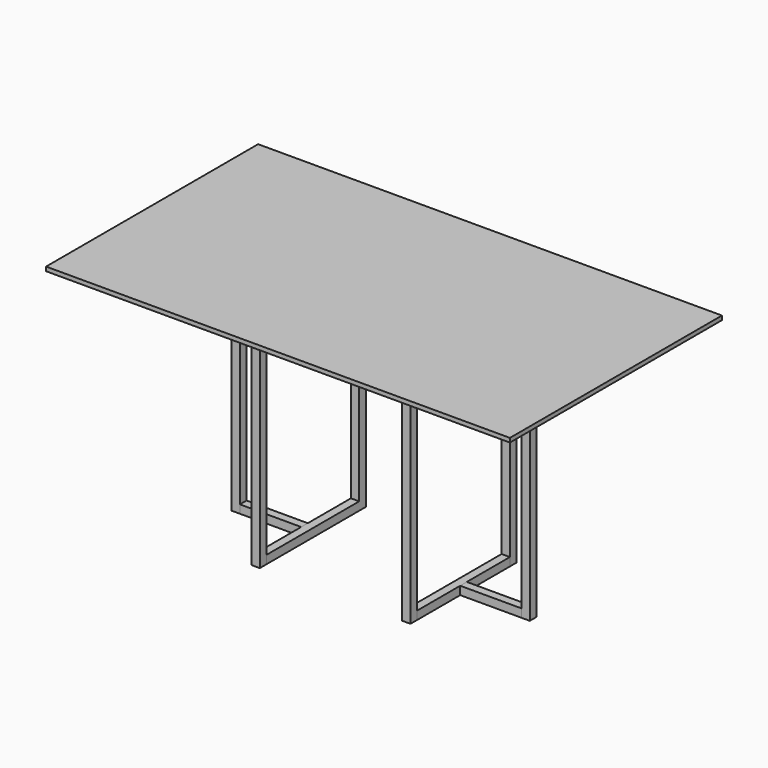
from build123d import *

# Parameters (mm, degrees)
F0_W      = 25
F0_H      = 25
F1_DEPTH  = 700
F3_W      = 25
F3_H      = 25
F4_DEPTH  = 350
F6_W      = 25
F6_H      = 25
F7_DEPTH  = 185
F9_W      = 25
F9_H      = 25
F10_DEPTH = 350
F12_W     = 25
F12_H     = 25
F13_DEPTH = 185
F16_DEPTH = 3
F18_W     = 1400
F18_H     = 800
F19_DEPTH = 25
F20_SIZE2 = 12.5
F20_SIZE  = 40


with BuildPart() as f1:
    # F0 (on Top) → F1 (new body)
    with BuildSketch(Plane.XY):
        with Locations((-472.5, 587.5)):
            Rectangle(F0_W, F0_H)
    extrude(amount=F1_DEPTH)


with BuildPart() as f1b:
    # F0 (on Top) → F1, piece 2 (new body)
    with BuildSketch(Plane.XY):
        Polygon((-250, 387.5), (-250, 400), (-250, 412.5), (-275, 412.5), (-275, 387.5), align=None)
    extrude(amount=F1_DEPTH)


with BuildPart() as f1c:
    # F0 (on Top) → F1, piece 3 (new body)
    with BuildSketch(Plane.XY):
        with Locations((-472.5, 212.5)):
            Rectangle(F0_W, F0_H)
    extrude(amount=F1_DEPTH)


with BuildPart() as f1d:
    # F0 (on Top) → F1, piece 4 (new body)
    with BuildSketch(Plane.XY):
        with Locations((-927.5, 587.5)):
            Rectangle(F0_W, F0_H)
    extrude(amount=F1_DEPTH)

    # F9 (on offset) → F10 (join)
    with BuildSketch(Plane.XZ.offset(-575)):
        with Locations((-927.5, 12.5)):
            Rectangle(F9_W, F9_H)
    extrude(amount=F10_DEPTH)


with BuildPart() as f1e:
    # F0 (on Top) → F1, piece 5 (new body)
    with BuildSketch(Plane.XY):
        with Locations((-927.5, 212.5)):
            Rectangle(F0_W, F0_H)
    extrude(amount=F1_DEPTH)


with BuildPart() as f1f:
    # F0 (on Top) → F1, piece 6 (new body)
    with BuildSketch(Plane.XY):
        with Locations((-1137.5, 400)):
            Rectangle(F0_W, F0_H)
    extrude(amount=F1_DEPTH)


with BuildPart() as f4:
    # F3 (on offset) → F4 (new body)
    with BuildSketch(Plane.XZ.offset(-575)):
        with Locations((-472.5, 12.5)):
            Rectangle(F3_W, F3_H)
    extrude(amount=F4_DEPTH)


with BuildPart() as f7:
    # F6 (on offset) → F7 (new body)
    with BuildSketch(Plane.YZ.offset(-460)):
        with Locations((400, 12.5)):
            Rectangle(F6_W, F6_H)
    extrude(amount=F7_DEPTH)


with BuildPart() as f13:
    # F12 (on offset) → F13 (new body)
    with BuildSketch(Plane(origin=(-940, 0, 0), x_dir=(0, -1, 0), z_dir=(-1, 0, 0))):
        with Locations((-400, 12.5)):
            Rectangle(F12_W, F12_H)
    extrude(amount=F13_DEPTH)


with BuildPart() as f16:
    # F15 (on offset) → F16 (new body)
    with BuildSketch(Plane.XY.offset(700)):
        Polygon((-250, 387.5), (-250, 400), (-250, 412.5), (-460, 600), (-485, 600), (-485, 400), (-485, 200), (-460, 200), align=None)
    extrude(amount=-F16_DEPTH)


with BuildPart() as f16b:
    # F15 (on offset) → F16, piece 2 (new body)
    with BuildSketch(Plane.XY.offset(700)):
        Polygon((-915, 600), (-940, 600), (-1150, 412.5), (-1150, 400), (-1150, 387.5), (-940, 200), (-915, 200), (-915, 400), align=None)
    extrude(amount=-F16_DEPTH)


with BuildPart() as f19:
    # F18 (on offset) → F19 (new body)
    with BuildSketch(Plane.XY.offset(700)):
        with Locations((-700, 400)):
            Rectangle(F18_W, F18_H)
    extrude(amount=F19_DEPTH)

    # F20
    f20_edges = [f19.edges().sort_by_distance(p)[0] for p in [
        (-700, 0, 700),
        (0, 400, 700),
        (-700, 800, 700),
        (-1400, 400, 700),
    ]]
    f20_side = f19.faces().sort_by_distance((-700, 400, 700))[0]
    chamfer(f20_edges, length=F20_SIZE, length2=F20_SIZE2, reference=f20_side)


solid = Compound([f1.part, f1b.part, f1c.part, f1d.part, f1e.part, f1f.part, f4.part, f7.part, f13.part, f16.part, f16b.part, f19.part])
